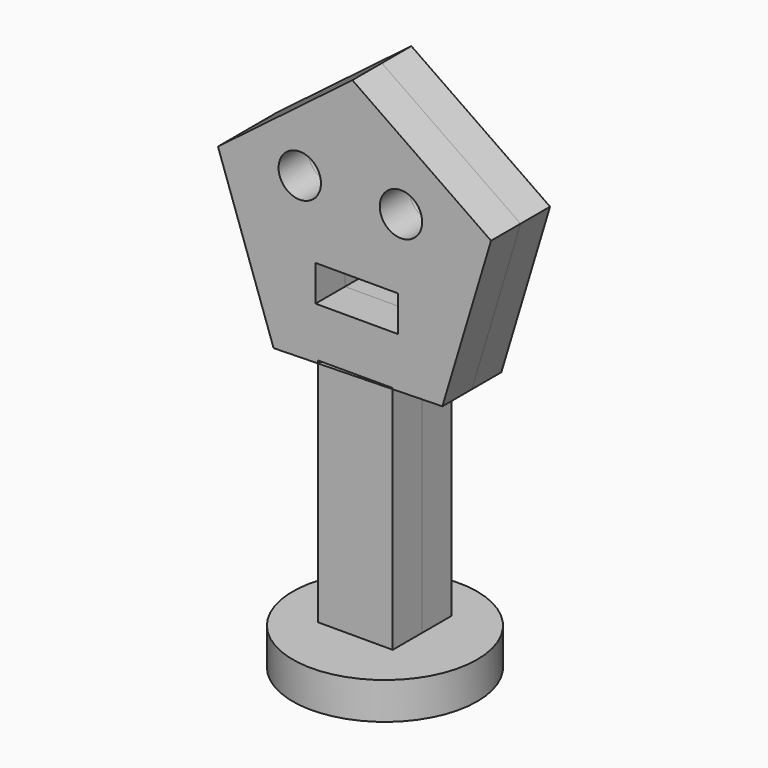
from build123d import *

# Parameters (mm, degrees)
F0_R     = 5
F1_DEPTH = 2
F3_DEPTH = 2
F4_DEPTH = 2
F5_R     = 1.15
F5_W     = 4.459527
F5_H     = 1.943896
F6_DEPTH = 4


with BuildPart() as f1:
    # F0 (on Top) → F1 (new body)
    with BuildSketch(Plane.XY):
        Circle(F0_R)
    extrude(amount=F1_DEPTH)


with BuildPart() as f3:
    # F2 (on Front) → F3 (new body)
    with BuildSketch(Plane.XZ):
        Polygon((2.01923, 14.749647), (-2.01923, 14.662579), (-2.01923, 2.307692), (2.01923, 2.307692), align=None)
        Polygon((-2.01923, 14.662579), (-2.01923, 14.807693), (2.01923, 14.807693), (2.01923, 14.749647), (4.711538, 14.807693), (7.351862, 23.572266), (-0.167837, 28.791766), (-7.455591, 23.25302), (-4.439971, 14.610388), align=None)
    extrude(amount=F3_DEPTH)


with BuildPart() as f4:
    # F3_face (on face) → F4 (new body)
    with BuildSketch(Plane(origin=(0.002363, 0, 8.506928), x_dir=(1, 0, 0), z_dir=(0, 1, 0))):
        Polygon((2.016867, -6.242719), (2.016867, 6.199236), (-2.021594, 6.199236), (-2.021594, -6.155651), align=None)
        Polygon((-2.021594, -6.155651), (-4.442335, -6.10346), (-7.457955, -14.746092), (-0.170201, -20.284837), (7.349499, -15.065338), (4.709175, -6.300765), (2.016867, -6.242719), (2.016867, -6.300765), (-2.021594, -6.300765), align=None)
    extrude(amount=F4_DEPTH)


with BuildPart() as f6_tool:
    # F5 (on face) → F6 (new body)
    with BuildSketch(Plane.XZ.offset(2)):
        with Locations((-3.020453, 23.30686)):
            Circle(F5_R)
        with Locations((2.468196, 23.249686)):
            Circle(F5_R)
        with Locations((0.066912, 18.447119)):
            Rectangle(F5_W, F5_H)
    extrude(amount=-F6_DEPTH)


with BuildPart() as f3_1:
    add(f3.part)

    # F6: cut by f6_tool
    add(f6_tool.part, mode=Mode.SUBTRACT)


with BuildPart() as f4_1:
    add(f4.part)

    # F6: cut by f6_tool
    add(f6_tool.part, mode=Mode.SUBTRACT)


solid = Compound([f1.part, f3_1.part, f4_1.part])
